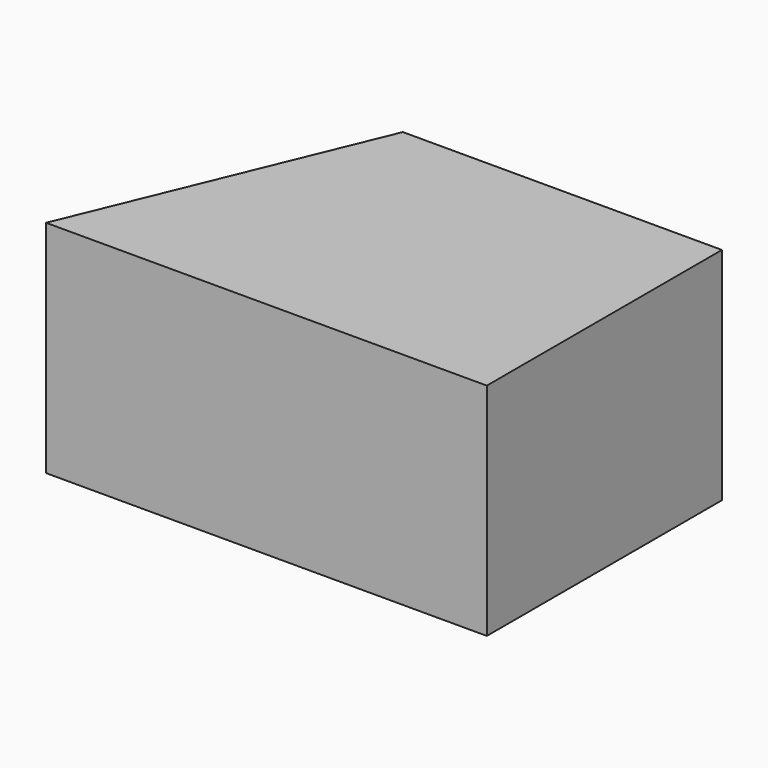
from build123d import *

# Parameters (mm, degrees)
F0_W     = 203.2
F0_H     = 152.4
F1_DEPTH = 152.4
F3_DEPTH = 152.401


with BuildPart() as f1:
    # F0 (on Right) → F1 (new body, symmetric)
    with BuildSketch(Plane.YZ):
        Rectangle(F0_W, F0_H)
    extrude(amount=F1_DEPTH, both=True)

    # F2 (on face) → F3 (cut, through all)
    with BuildSketch(Plane.XY.offset(76.2)):
        Polygon((-152.4, 101.6), (-152.4, -101.6), (-68.231804, 101.6), align=None)
    extrude(amount=-F3_DEPTH, mode=Mode.SUBTRACT)


solid = f1.part
